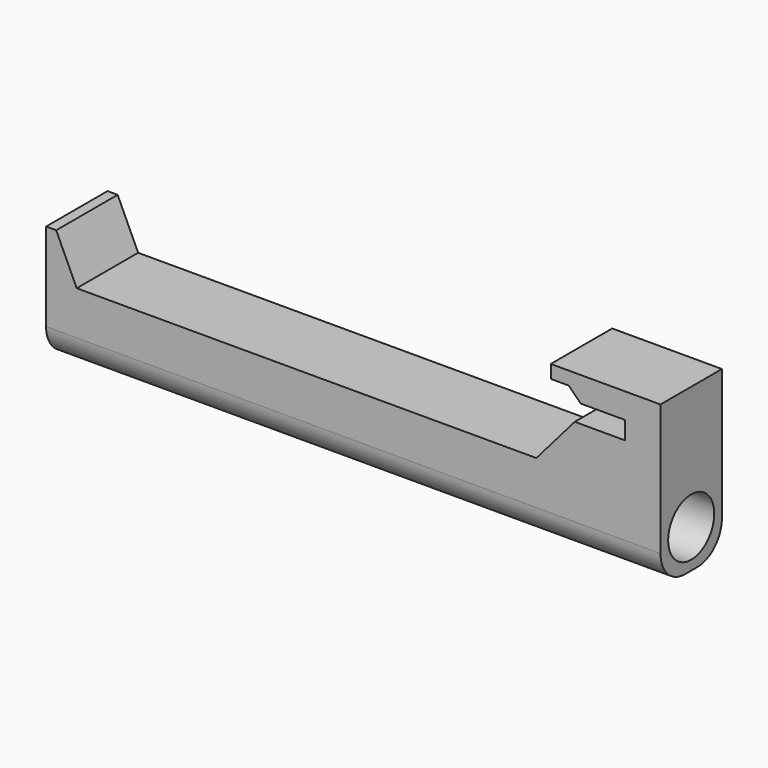
from build123d import *

# Parameters (mm, degrees)
F1_DEPTH = 12.7
F2_W     = 101.6
F2_H     = 12.7
F3_DEPTH = 6.35
F4_R     = 5.08
F6_D     = 9.525
F8_D     = 6.35
F8_DEPTH = 5.08
F8_START = 0.3707141
F8_TIP   = 1.9077324654


with BuildPart() as f1:
    # F0 (on Front) → F1 (new body)
    with BuildSketch(Plane.XZ):
        Polygon((-101.6, 0), (0, 0), (0, 20.4238668084), (-18.1435327977, 20.4238668084), (-18.1435327977, 18.2426776737), (-15.169181861, 18.2426776737), (-13.1862824783, 16.259778291), (-5.8495542035, 16.259778291), (-5.8495542035, 13.2854273543), (-14.1777321696, 13.2854273543), (-20.5230116844, 5.9486986138), (-62.4783523381, 5.9486986138), (-96.535615623, 5.9486986138), (-99.9226495624, 13.2854273543), (-101.6, 13.2854273543), align=None)
    extrude(amount=F1_DEPTH)

    # F2 (on face) → F3 (join)
    with BuildSketch(Plane(origin=(0, 0, 0), x_dir=(1, 0, 0), z_dir=(0, 0, -1))):
        with Locations((-50.8, 6.35)):
            Rectangle(F2_W, F2_H)
    extrude(amount=F3_DEPTH)

    # F4
    f4_edges = [f1.edges().sort_by_distance(p)[0] for p in [
        (-50.8, -12.7, -6.35),
        (-50.8, 0, -6.35),
    ]]
    fillet(f4_edges, radius=F4_R)

    # F6 (through all)
    with Locations(Plane.YZ):
        with Locations((-6.35, 0)):
            Hole(F6_D / 2)

    # F8
    # its depths count from where the whole tool has entered the part; down to there all is cleared
    with Locations(Plane(origin=(0, 0, -6.35), x_dir=(1, 0, 0), z_dir=(0, 0, -1)).offset(-F8_START)):
        with Locations((-83.1515192986, 6.35)):
            Hole(F8_D / 2, depth=F8_DEPTH)
            with Locations((0, 0, -(F8_DEPTH + F8_TIP / 2))):  # 118° drill point
                Cone(0, F8_D / 2, F8_TIP, mode=Mode.SUBTRACT)


solid = f1.part
